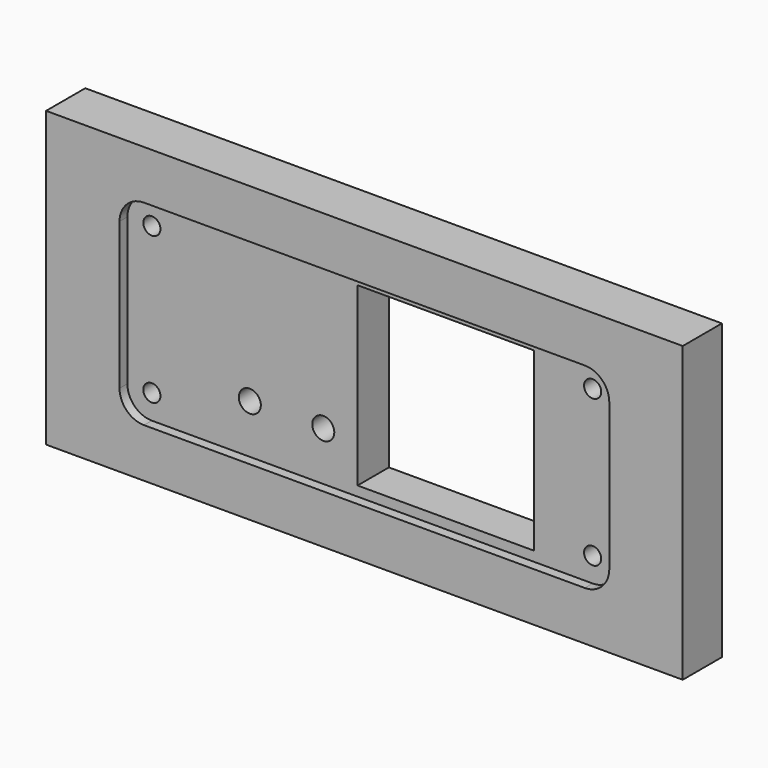
from build123d import *

# Parameters (mm, degrees)
SKETCH022_W          = 130
SKETCH022_H          = 60
PAD008_DEPTH         = 10
SKETCH023_R          = 2.25
SKETCH023_R_2        = 1.75
SKETCH023_W          = 36
SKETCH023_H          = 36
POCKET014_DEPTH      = 10.001
POCKET014_DEPTH_BACK = 0.001
SKETCH024_W          = 100
SKETCH024_H          = 40
POCKET015_DEPTH      = 2
FILLET002_R          = 5


with BuildPart() as part:
    # Sketch022 → Pad008 (new body)
    with BuildSketch(Plane.XZ):
        with Locations((0, 40)):
            Rectangle(SKETCH022_W, SKETCH022_H)
    extrude(amount=PAD008_DEPTH)

    # Sketch023 (on Face6 of Pad008) → Pocket014 (cut, two sides)
    with BuildSketch(Plane.XZ.offset(10)) as pocket014_sk:
        with Locations((-25, 30)):
            Circle(SKETCH023_R)
        with Locations((-10, 30)):
            Circle(SKETCH023_R)
        with Locations((-45, 55)):
            Circle(SKETCH023_R_2)
        with Locations((-45, 25)):
            Circle(SKETCH023_R_2)
        with Locations((45, 55)):
            Circle(SKETCH023_R_2)
        with Locations((45, 25)):
            Circle(SKETCH023_R_2)
        with Locations((15, 40)):
            Rectangle(SKETCH023_W, SKETCH023_H)
    extrude(amount=-POCKET014_DEPTH, mode=Mode.SUBTRACT)
    extrude(pocket014_sk.sketch, amount=POCKET014_DEPTH_BACK, mode=Mode.SUBTRACT)

    # Sketch024 (on Face5 of Pocket014) → Pocket015 (cut)
    with BuildSketch(Plane.XZ.offset(10)):
        with Locations((0, 40)):
            Rectangle(SKETCH024_W, SKETCH024_H)
    extrude(amount=-POCKET015_DEPTH, mode=Mode.SUBTRACT)

    # Fillet002
    fillet002_edges = [part.edges().sort_by_distance(p)[0] for p in [
        (50, -9, 60),
        (50, -9, 20),
        (-50, -9, 20),
        (-50, -9, 60),
    ]]
    fillet(fillet002_edges, radius=FILLET002_R)


solid = part.part
